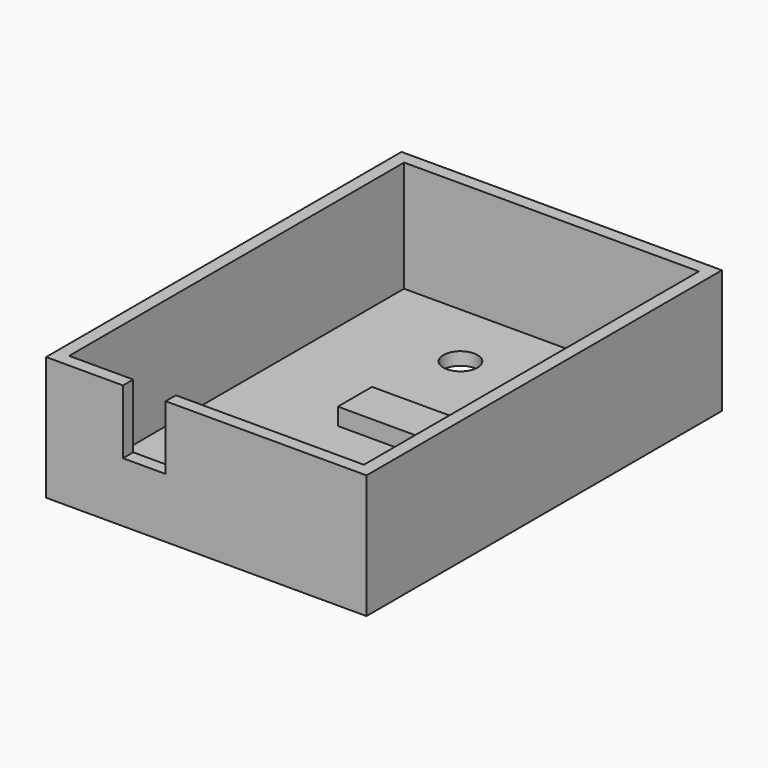
from build123d import *

# Parameters (mm, degrees)
F0_W     = 37.5
F0_H     = 52
F1_DEPTH = 14.5
F2_W     = 34.5
F2_H     = 49
F3_DEPTH = 13
F4_R     = 2
F5_DEPTH = 25
F6_W     = 10
F6_H     = 5
F7_DEPTH = 2
F8_W     = 5
F8_H     = 7.5
F9_DEPTH = 10


with BuildPart() as f1:
    # F0 (on Top) → F1 (new body)
    with BuildSketch(Plane.XY):
        Rectangle(F0_W, F0_H)
    extrude(amount=F1_DEPTH)

    # F2 (on face) → F3 (cut)
    with BuildSketch(Plane.XY.offset(14.5)):
        Rectangle(F2_W, F2_H)
    extrude(amount=-F3_DEPTH, mode=Mode.SUBTRACT)

    # F4 (on face) → F5 (cut)
    with BuildSketch(Plane.XY.offset(1.5)):
        with Locations((-4.25, 16.5)):
            Circle(F4_R)
    extrude(amount=-F5_DEPTH, mode=Mode.SUBTRACT)

    # F6 (on face) → F7 (join)
    with BuildSketch(Plane.XY.offset(1.5)):
        with Locations((0, 2)):
            Rectangle(F6_W, F6_H)
    extrude(amount=F7_DEPTH)

    # F8 (on face) → F9 (cut)
    with BuildSketch(Plane.XZ.offset(26)):
        with Locations((-7.25, 10.75)):
            Rectangle(F8_W, F8_H)
    extrude(amount=-F9_DEPTH, mode=Mode.SUBTRACT)


solid = f1.part
